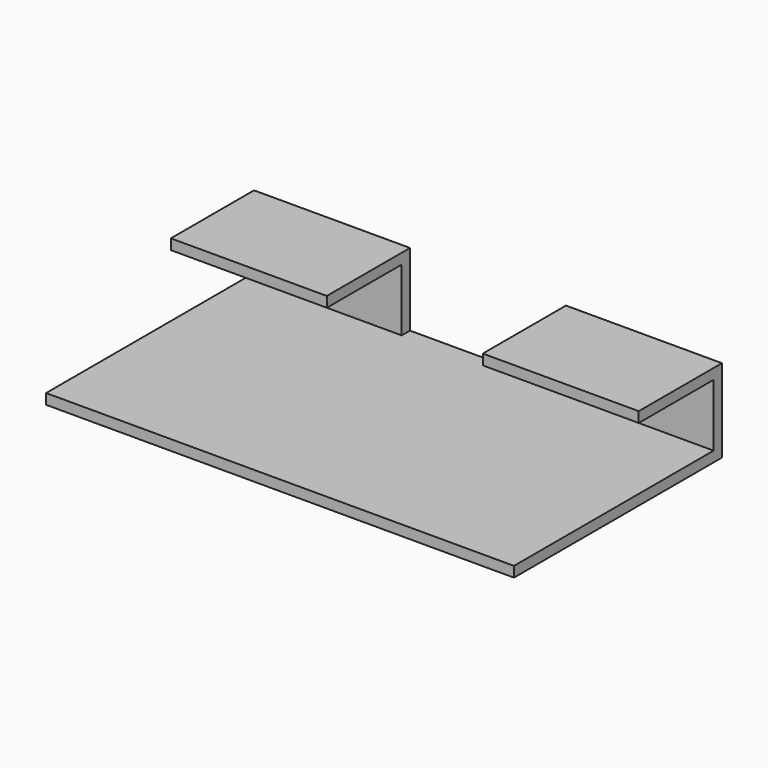
from build123d import *

# Parameters (mm, degrees)
F0_W     = 2
F0_H     = 12
F1_DEPTH = 45
F2_W     = 30
F2_H     = 20
F3_DEPTH = 14


with BuildPart() as f1:
    # F0 (on Right) → F1 (new body, symmetric)
    with BuildSketch(Plane.YZ):
        Polygon((48, 0), (0, 0), (0, -2), (50, -2), (50, 0), align=None)
        with Locations((49, 6)):
            Rectangle(F0_W, F0_H)
        Polygon((30, 12), (48, 12), (50, 12), (50, 14), (30, 14), align=None)
    extrude(amount=F1_DEPTH, both=True)

    # F2 (on face) → F3 (cut)
    with BuildSketch(Plane.XY.offset(14)):
        with Locations((0, 40)):
            Rectangle(F2_W, F2_H)
    extrude(amount=-F3_DEPTH, mode=Mode.SUBTRACT)


solid = f1.part
